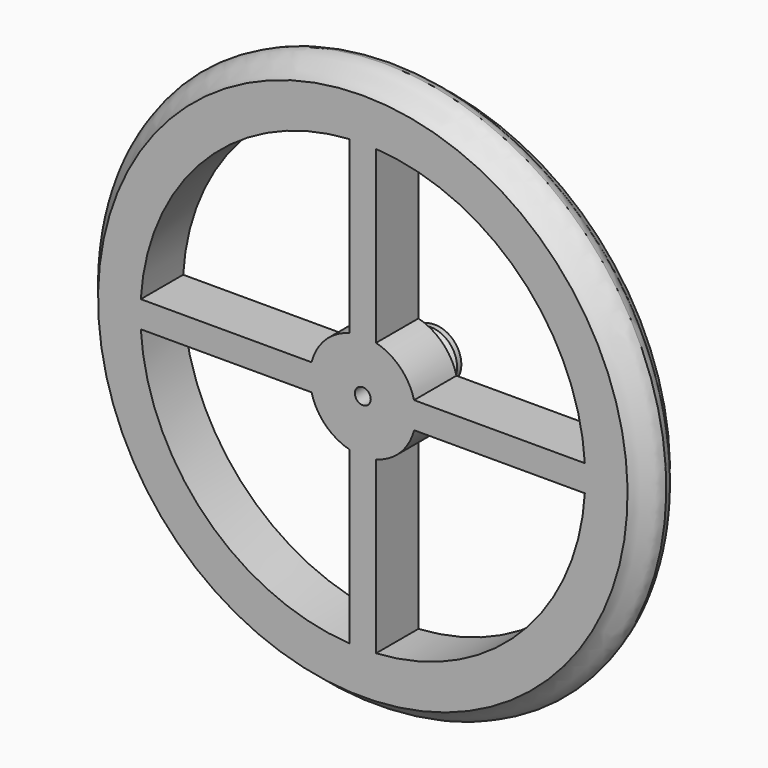
from build123d import *

# Parameters (mm, degrees)
F0_R      = 50
F1_DEPTH  = 10
F6_R      = 5
F7_DEPTH  = 7
F5_R      = 1.5
F8_DEPTH  = 17.001
F13_DEPTH = 10.001


with BuildPart() as f1:
    # F0 (on Front) → F1 (new body)
    with BuildSketch(Plane.XZ):
        Circle(F0_R)
    extrude(amount=F1_DEPTH)

    # F3 (on Right) → F4 (revolve)
    with BuildSketch(Plane.YZ):
        with BuildLine():
            Line((-10, 50), (0, 50))
            add(Edge.make_bspline(
                [(0, 50), (-2.587933, 50.855839), (-2.303226, 52.902121), (-5, 53.30912)],
                knots=[0, 0, 0, 0, 5.995855, 5.995855, 5.995855, 5.995855], degree=3))
            add(Edge.make_bspline(
                [(-10, 50), (-7.412067, 50.855839), (-7.696774, 52.902121), (-5, 53.30912)],
                knots=[0, 0, 0, 0, 5.995855, 5.995855, 5.995855, 5.995855], degree=3))
        make_face()
    revolve(axis=Axis((0, -20.942401, 0), (0, -1, 0)))

    # F6 (on face) → F7 (join)
    with BuildSketch(Plane(origin=(0, 0, 0), x_dir=(-1, 0, 0), z_dir=(0, 1, 0))):
        Circle(F6_R)
    extrude(amount=F7_DEPTH)

    # F5 (on face) → F8 (cut, through all)
    with BuildSketch(Plane.XZ.offset(10)):
        Circle(F5_R)
    extrude(amount=-F8_DEPTH, mode=Mode.SUBTRACT)

    # F9 (on Right) → F11 (revolve, cut)
    with BuildSketch(Plane.YZ):
        with BuildLine():
            Line((6, 5), (1, 5))
            ThreePointArc((1, 5), (3.5, 3.5), (6, 5))
        make_face()
    revolve(axis=Axis((0, 3.22971, 0), (0, 1, 0)), mode=Mode.SUBTRACT)

    # F12 (on face) → F13 (cut, through all)
    with BuildSketch(Plane(origin=(0, 0, 0), x_dir=(-1, 0, 0), z_dir=(0, 1, 0))):
        with BuildLine():
            Line((9.682458, 2.5), (41.925529, 2.5))
            ThreePointArc((41.925529, 2.5), (29.698485, 29.698485), (2.5, 41.925529))
            Line((2.5, 41.925529), (2.5, 9.682458))
            ThreePointArc((2.5, 9.682458), (7.071068, 7.071068), (9.682458, 2.5))
        make_face()
        with BuildLine():
            ThreePointArc((2.5, -41.925529), (29.698485, -29.698485), (41.925529, -2.5))
            Line((41.925529, -2.5), (9.682458, -2.5))
            ThreePointArc((9.682458, -2.5), (7.071068, -7.071068), (2.5, -9.682458))
            Line((2.5, -9.682458), (2.5, -41.925529))
        make_face()
        with BuildLine():
            Line((-2.5, 9.682458), (-2.5, 41.925529))
            ThreePointArc((-2.5, 41.925529), (-29.698485, 29.698485), (-41.925529, 2.5))
            Line((-41.925529, 2.5), (-9.682458, 2.5))
            ThreePointArc((-9.682458, 2.5), (-7.071068, 7.071068), (-2.5, 9.682458))
        make_face()
        with BuildLine():
            ThreePointArc((-2.5, -9.682458), (-7.071068, -7.071068), (-9.682458, -2.5))
            Line((-9.682458, -2.5), (-41.925529, -2.5))
            ThreePointArc((-41.925529, -2.5), (-29.698485, -29.698485), (-2.5, -41.925529))
            Line((-2.5, -41.925529), (-2.5, -9.682458))
        make_face()
    extrude(amount=-F13_DEPTH, mode=Mode.SUBTRACT)


solid = f1.part
